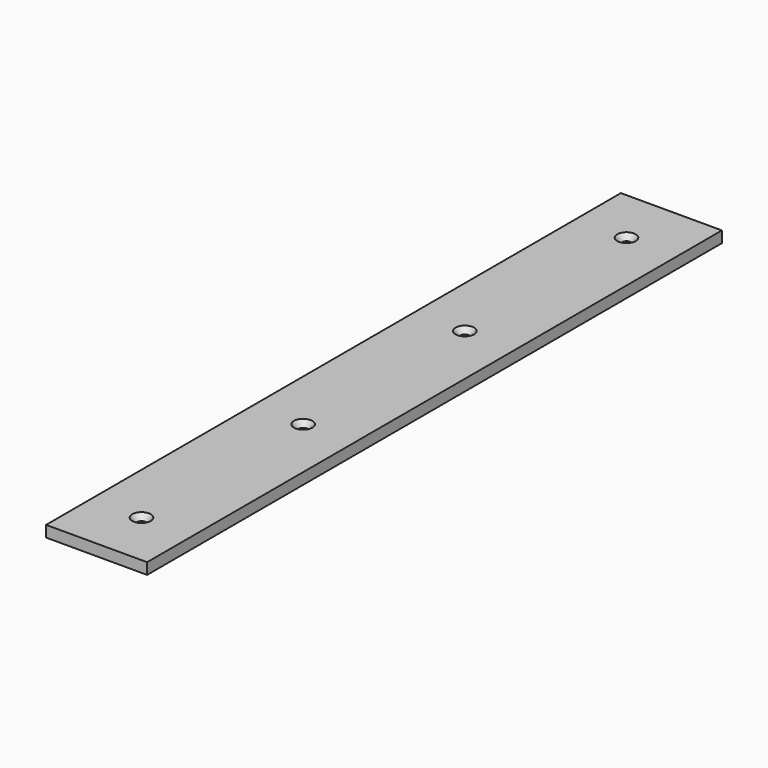
from build123d import *

# Parameters (mm, degrees)
F0_W           = 57.15
F0_H           = 6.35
F1_DEPTH       = 406.4
F3_D           = 5.1054
F3_DEPTH       = 19.1008
F3_CSINK_D     = 10.4394
F3_CSINK_ANGLE = 82
F3_TIP         = 1.5338169022


with BuildPart() as f1:
    # F0 (on Front) → F1 (new body)
    with BuildSketch(Plane.XZ):
        with Locations((28.575, 3.175)):
            Rectangle(F0_W, F0_H)
    extrude(amount=F1_DEPTH)

    # F3
    with Locations(Plane.XY.offset(6.35)):
        with Locations((28.575, -374.65), (28.575, -260.35), (28.575, -146.05), (28.575, -31.75)):
            CounterSinkHole(F3_D / 2, F3_CSINK_D / 2, depth=F3_DEPTH, counter_sink_angle=F3_CSINK_ANGLE)
            with Locations((0, 0, -(F3_DEPTH + F3_TIP / 2))):  # 118° drill point
                Cone(0, F3_D / 2, F3_TIP, mode=Mode.SUBTRACT)


solid = f1.part
